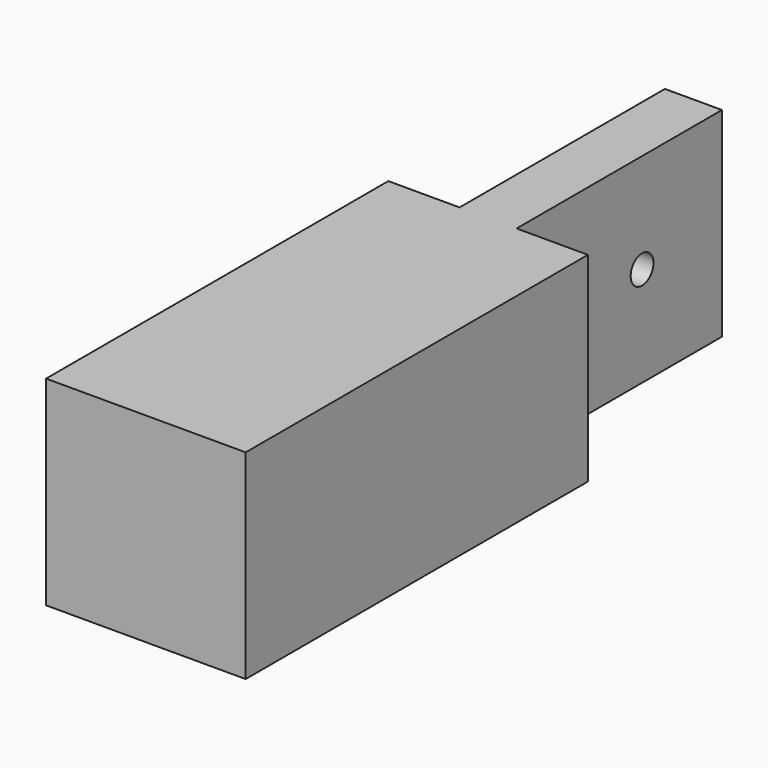
from build123d import *

# Parameters (mm, degrees)
F0_W     = 88.9
F0_H     = 88.9
F1_DEPTH = 304.8
F2_W     = 31.75
F2_H     = 114.3
F3_DEPTH = 127
F4_R     = 6.35
F5_DEPTH = 127


with BuildPart() as f1:
    # F0 (on Front) → F1 (new body)
    with BuildSketch(Plane.XZ):
        with Locations((1.7375517637, 8.7750459692)):
            Rectangle(F0_W, F0_H)
    extrude(amount=F1_DEPTH)

    # F2 (on Top) → F3 (cut, symmetric)
    with BuildSketch(Plane.XY):
        with Locations((-26.8374482363, -57.15)):
            Rectangle(F2_W, F2_H)
        with Locations((30.3125517637, -57.15)):
            Rectangle(F2_W, F2_H)
    extrude(amount=F3_DEPTH, both=True, mode=Mode.SUBTRACT)

    # F4 (on face) → F5 (cut, symmetric)
    with BuildSketch(Plane.YZ.offset(14.4375517637)):
        with Locations((-44.45, 8.7750459692)):
            Circle(F4_R)
    extrude(amount=F5_DEPTH, both=True, mode=Mode.SUBTRACT)


solid = f1.part
